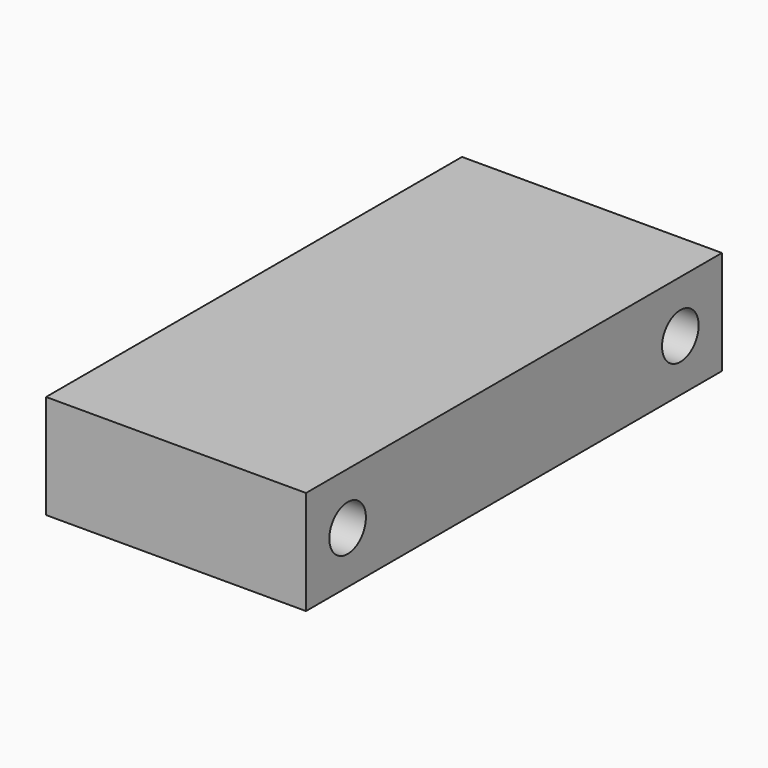
from build123d import *

# Parameters (mm, degrees)
F0_W           = 50
F0_H           = 100
F1_DEPTH       = 20
F4_D           = 8.8
F4_DEPTH       = 10
F4_TIP         = 2.6437867237
F4_ON_F2_D     = 8.8
F4_ON_F2_DEPTH = 10
F4_ON_F2_TIP   = 2.6437867237


with BuildPart() as f1:
    # F0 (on Top) → F1 (new body)
    with BuildSketch(Plane.XY):
        Rectangle(F0_W, F0_H)
    extrude(amount=F1_DEPTH)

    # F4
    with Locations(Plane.YZ.offset(25)):
        with Locations((-40, 10), (40, 10)):
            Hole(F4_D / 2, depth=F4_DEPTH)
            with Locations((0, 0, -(F4_DEPTH + F4_TIP / 2))):  # 118° drill point
                Cone(0, F4_D / 2, F4_TIP, mode=Mode.SUBTRACT)

    # F4 on F2
    with Locations(Plane(origin=(-25, 0, 0), x_dir=(0, -1, 0), z_dir=(-1, 0, 0))):
        with Locations((-40, 10), (40, 10)):
            Hole(F4_ON_F2_D / 2, depth=F4_ON_F2_DEPTH)
            with Locations((0, 0, -(F4_ON_F2_DEPTH + F4_ON_F2_TIP / 2))):  # 118° drill point
                Cone(0, F4_ON_F2_D / 2, F4_ON_F2_TIP, mode=Mode.SUBTRACT)


solid = f1.part
